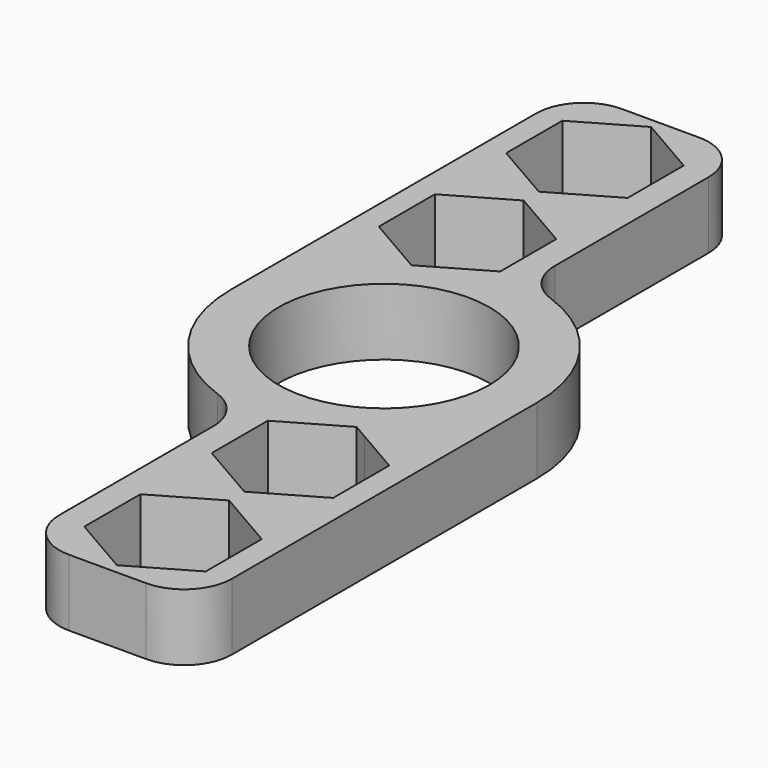
from build123d import *

# Parameters (mm, degrees)
F1_DEPTH = 7


with BuildPart() as f1:
    # F0 (on Top) → F1 (new body)
    with BuildSketch(Plane.XY):
        with BuildLine():
            Line((-16.05, 40), (-16.05, 0))
            ThreePointArc((-16.05, 0), (-13.109612, -9.25962), (-5.365817, -15.126484))
            ThreePointArc((-5.365817, -15.126484), (-2.95342, -16.954167), (-2.037411, -19.838784))
            Line((-2.037411, -19.838784), (-2.037411, -40))
            ThreePointArc((-2.037411, -40), (-0.572945, -43.535534), (2.962589, -45))
            Line((2.962589, -45), (11.05, -45))
            ThreePointArc((11.05, -45), (14.585534, -43.535534), (16.05, -40))
            Line((16.05, -40), (16.05, 0))
            ThreePointArc((16.05, 0), (13.109612, 9.25962), (5.365817, 15.126484))
            ThreePointArc((5.365817, 15.126484), (2.95342, 16.954167), (2.037411, 19.838784))
            Line((2.037411, 19.838784), (2.037411, 40))
            ThreePointArc((2.037411, 40), (0.572945, 43.535534), (-2.962589, 45))
            Line((-2.962589, 45), (-11.05, 45))
            ThreePointArc((-11.05, 45), (-14.585534, 43.535534), (-16.05, 40))
        make_face()
        Polygon((13.565287, -40.325), (7.2, -44), (0.834713, -40.325), (0.834713, -32.975), (7.2, -29.3), (13.565287, -32.975), align=None, mode=Mode.SUBTRACT)
        Polygon((13.565287, -23.625), (7.2, -27.3), (0.834713, -23.625), (0.834713, -16.275), (7.2, -12.6), (8.71755, -13.476158), (13.565287, -16.275), align=None, mode=Mode.SUBTRACT)
        Polygon((-13.565287, 23.625), (-7.2, 27.3), (-0.834713, 23.625), (-0.834713, 16.275), (-7.2, 12.6), (-8.71755, 13.476158), (-13.565287, 16.275), align=None, mode=Mode.SUBTRACT)
        Polygon((-13.565287, 40.325), (-7.2, 44), (-0.834713, 40.325), (-0.834713, 32.975), (-7.2, 29.3), (-13.565287, 32.975), align=None, mode=Mode.SUBTRACT)
        with BuildLine():
            ThreePointArc((-11.05, 0), (0, 11.05), (11.05, 0))
            ThreePointArc((11.05, 0), (0, -11.05), (-11.05, 0))
        make_face(mode=Mode.SUBTRACT)
    extrude(amount=F1_DEPTH)


solid = f1.part
